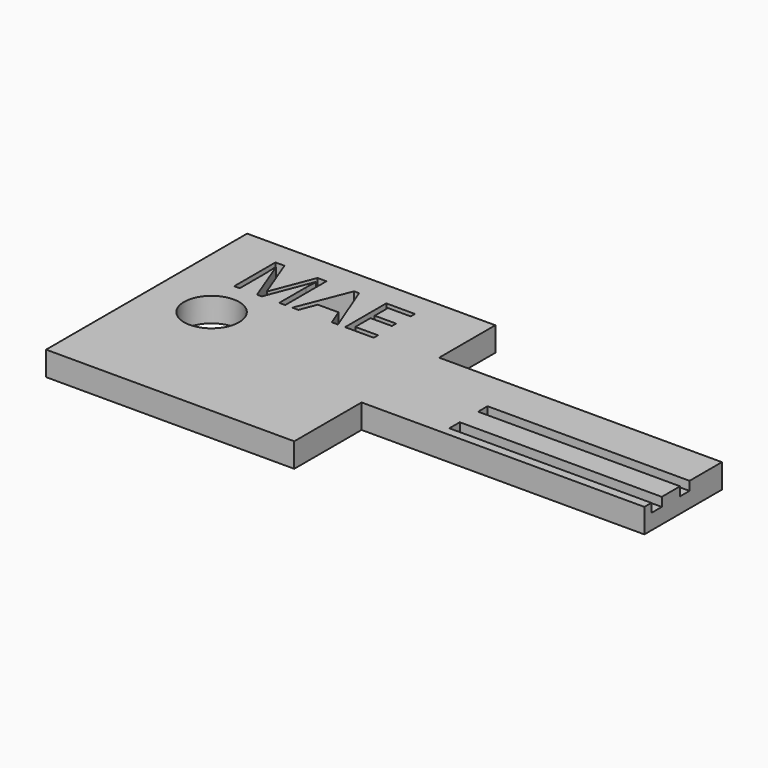
from build123d import *

# Parameters (mm, degrees)
F0_R     = 3.4074788524
F0_W     = 35
F0_H     = 12
F1_DEPTH = 3
F2_W     = 1.616977388
F2_H     = 1.0979964603
F2_W_2   = 1.4653857797
F3_DEPTH = 25


with BuildPart() as f1:
    # F0 (on Top) → F1 (new body)
    with BuildSketch(Plane.XY):
        Polygon((-17.5, -6), (-17.5, 6), (-17.5, 14.6892257035), (-48.2150837779, 14.6892257035), (-48.2150837779, -16.4167732), (-17.5, -16.4167732), align=None)
        with Locations((-40.6326351605, -0.2901499333)):
            Circle(F0_R, mode=Mode.SUBTRACT)
        with BuildLine():
            Line((-38.8897335724, 5.3075365722), (-39.4871027133, 5.3075365722))
            Line((-39.4871027133, 5.3075365722), (-41.6504722654, 10.9602118537))
            Line((-41.6504722654, 10.9602118537), (-41.6853653227, 10.9602118537))
            add(Edge.make_bspline(
                [(-41.6853653227, 10.9602118537), (-41.6239535419, 10.2888694314), (-41.6239535419, 9.3635055519)],
                knots=[0, 0, 0, 1, 1, 1], degree=2))
            Line((-41.6239535419, 9.3635055519), (-41.6239535419, 5.3075365722))
            Line((-41.6239535419, 5.3075365722), (-42.3092531871, 5.3075365722))
            Line((-42.3092531871, 5.3075365722), (-42.3092531871, 11.6845917231))
            Line((-42.3092531871, 11.6845917231), (-41.1926753538, 11.6845917231))
            Line((-41.1926753538, 11.6845917231), (-39.1730651977, 6.4241144056))
            Line((-39.1730651977, 6.4241144056), (-39.1381721404, 6.4241144056))
            Line((-39.1381721404, 6.4241144056), (-37.1018133167, 11.6845917231))
            Line((-37.1018133167, 11.6845917231), (-35.9936098171, 11.6845917231))
            Line((-35.9936098171, 11.6845917231), (-35.9936098171, 5.3075365722))
            Line((-35.9936098171, 5.3075365722), (-36.734738354, 5.3075365722))
            Line((-36.734738354, 5.3075365722), (-36.734738354, 9.416542999))
            add(Edge.make_bspline(
                [(-36.734738354, 9.416542999), (-36.734738354, 10.1227784786), (-36.6733265732, 10.9518375199)],
                knots=[0, 0, 0, 1, 1, 1], degree=2))
            Line((-36.6733265732, 10.9518375199), (-36.7082196305, 10.9518375199))
            Line((-36.7082196305, 10.9518375199), (-38.8897335724, 5.3075365722))
        make_face(mode=Mode.SUBTRACT)
        Polygon((-29.4686081033, 5.3075365722), (-30.2362553638, 5.3075365722), (-31.0304213478, 7.3355210621), (-33.5859888639, 7.3355210621), (-34.3703847919, 5.3075365722), (-35.1212833848, 5.3075365722), (-32.600608926, 11.7111104466), (-31.9767210616, 11.7111104466), align=None, mode=Mode.SUBTRACT)
        Polygon((-25.0371898271, 5.9705046608), (-25.0371898271, 5.3075365722), (-28.5920945041, 5.3075365722), (-28.5920945041, 11.6845917231), (-25.0371898271, 11.6845917231), (-25.0371898271, 11.0258108014), (-27.8509659672, 11.0258108014), (-27.8509659672, 8.971307588), (-25.2074679467, 8.971307588), (-25.2074679467, 8.3167138332), (-27.8509659672, 8.3167138332), (-27.8509659672, 5.9705046608), align=None, mode=Mode.SUBTRACT)
        Rectangle(F0_W, F0_H)
    extrude(amount=F1_DEPTH)

    # F2 (on face) → F3 (cut)
    with BuildSketch(Plane.YZ.offset(17.5)):
        with Locations((-4.1133718332, 2.4510017699)):
            Rectangle(F2_W, F2_H)
        with Locations((0.2575201215, 2.4510017699)):
            Rectangle(F2_W_2, F2_H)
    extrude(amount=-F3_DEPTH, mode=Mode.SUBTRACT)


solid = f1.part
